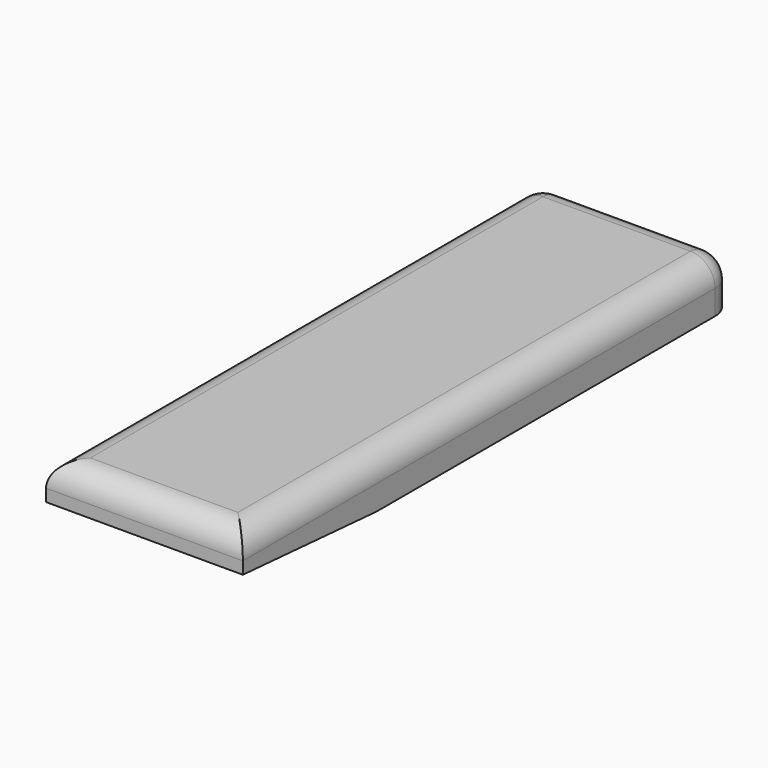
from build123d import *

# Parameters (mm, degrees)
F0_W     = 8
F0_H     = 25
F1_DEPTH = 2
F2_W     = 3.3
F2_H     = 18.2
F3_DEPTH = 0.5
F5_DEPTH = 8.001
F6_R     = 1


with BuildPart() as f1:
    # F0 (on Top) → F1 (new body)
    with BuildSketch(Plane.XY):
        with Locations((-4, 12.5)):
            Rectangle(F0_W, F0_H)
    extrude(amount=F1_DEPTH)

    # F2 (on face) → F3 (cut)
    with BuildSketch(Plane(origin=(0, 0, 0), x_dir=(1, 0, 0), z_dir=(0, 0, -1))):
        Polygon((-7.1, -6.8), (-5.8275572956, -6.8), (-2.5275572956, -6.8), (-0.9, -6.8), (-0.9, 0), (-7.1, 0), align=None)
        with Locations((-4.1775572956, -15.9)):
            Rectangle(F2_W, F2_H)
    extrude(amount=-F3_DEPTH, mode=Mode.SUBTRACT)

    # F4 (on face) → F5 (cut, through all)
    with BuildSketch(Plane.YZ):
        Polygon((6.8, 0), (0, 0.5), (0, 0), align=None)
    extrude(amount=-F5_DEPTH, mode=Mode.SUBTRACT)

    # F6
    f6_edges = [f1.edges().sort_by_distance(p)[0] for p in [
        (0, 25, 1),
        (-8, 25, 1),
        (-4, 25, 2),
        (0, 12.5, 2),
        (-8, 12.5, 2),
        (-4, 0, 2),
    ]]
    fillet(f6_edges, radius=F6_R)


solid = f1.part
